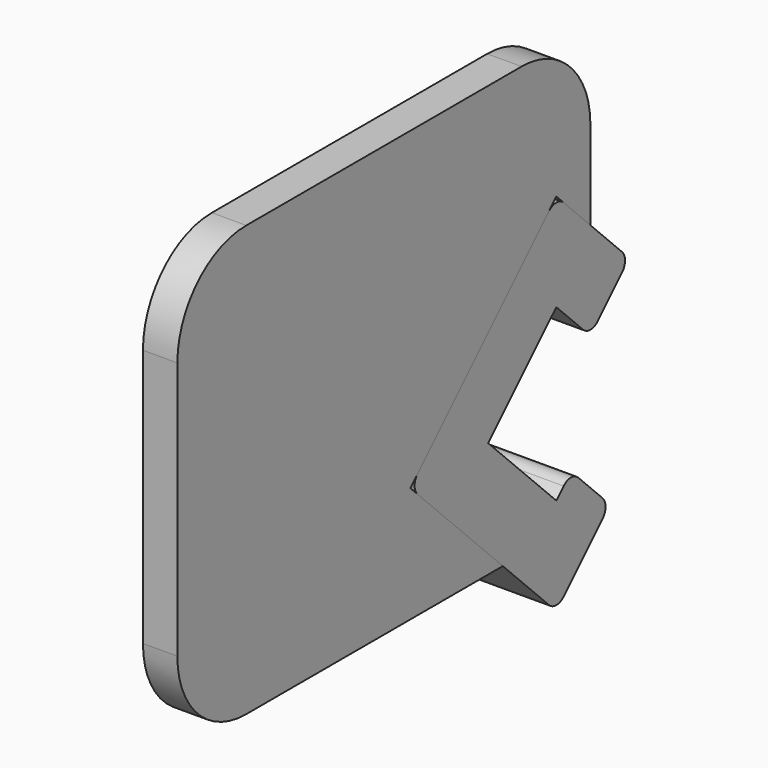
from build123d import *

# Parameters (mm, degrees)
F1_DEPTH = 7
F2_DEPTH = 2
F3_R     = 5
F4_R     = 0.75


with BuildPart() as f1:
    # F0 (on Right) → F1 (new body)
    with BuildSketch(Plane.YZ):
        Polygon((1.06066, 8.067118), (0, 7.006457), (-4.949747, 11.956205), (0, 16.905952), (2.474874, 14.431079), (2.474874, 20.087933), (0, 22.562807), (-10.606602, 11.956205), (-3.889087, 5.23869), (3.889087, 5.23869), align=None)
        Polygon((0, 1.349603), (3.889087, 5.23869), (-3.889087, 5.23869), align=None)
        Polygon((2.474874, 20.087933), (2.474874, 14.431079), (5.303301, 17.259506), align=None)
    extrude(amount=-F1_DEPTH)

    # F4
    f4_edges = [f1.edges().sort_by_distance(p)[0] for p in [
        (-3.5, 2.474874, 14.431079),
        (-3.5, 1.06066, 8.067118),
        (-3.5, 0, 1.349603),
        (-3.5, 3.889087, 5.23869),
        (-3.5, 5.303301, 17.259506),
        (-3.5, 0, 22.562807),
        (-3.5, -10.606602, 11.956205),
    ]]
    fillet(f4_edges, radius=F4_R)


with BuildPart() as f2:
    # F0 (on Right) → F2 (new body)
    with BuildSketch(Plane.YZ):
        Polygon((-27.525126, 5.23869), (-3.889087, 5.23869), (-10.606602, 11.956205), (0, 22.562807), (2.474874, 20.087933), (2.474874, 30.23869), (-27.525126, 30.23869), align=None)
    extrude(amount=-F2_DEPTH)

    # F3
    f3_edges = [f2.edges().sort_by_distance(p)[0] for p in [
        (-1, 2.474874, 30.23869),
        (-1, -27.525126, 30.23869),
        (-1, -27.525126, 5.23869),
    ]]
    fillet(f3_edges, radius=F3_R)


solid = Compound([f1.part, f2.part])
